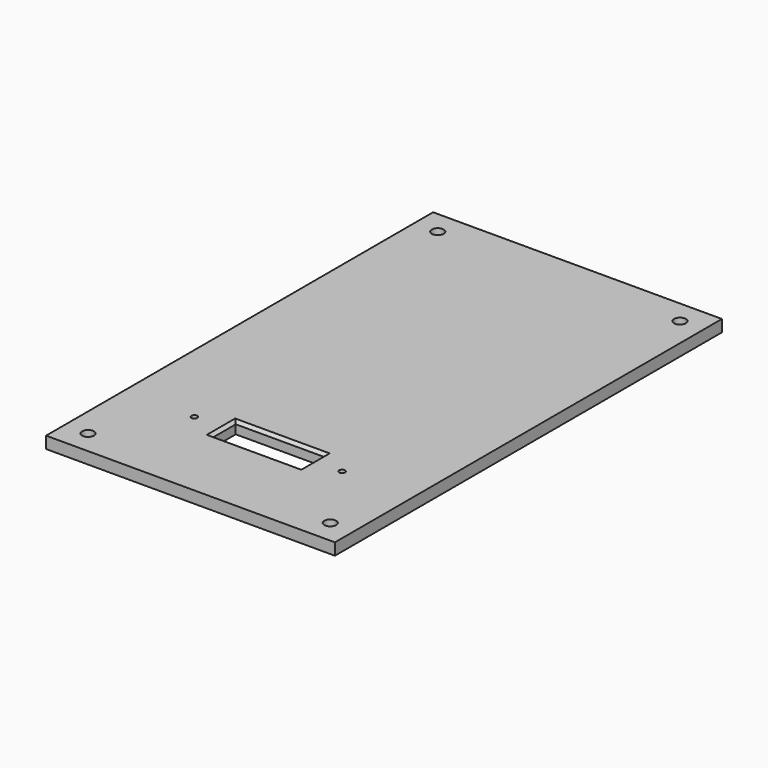
from build123d import *

# Parameters (mm, degrees)
F0_W     = 48.9
F0_H     = 81.9
F0_W_2   = 15
F0_H_2   = 5
F1_DEPTH = 2
F2_D     = 2
F2_DEPTH = 15
F2_TIP   = 0.600860619
F3_D     = 1
F3_DEPTH = 15
F3_TIP   = 0.3004303095
F4_SIZE  = 0.5


with BuildPart() as f1:
    # F0 (on Top) → F1 (new body)
    with BuildSketch(Plane.XY):
        Rectangle(F0_W, F0_H)
        with Locations((0, -24.5)):
            Rectangle(F0_W_2, F0_H_2, mode=Mode.SUBTRACT)
    extrude(amount=F1_DEPTH)

    # F2
    with Locations(Plane(origin=(0, 0, 0), x_dir=(1, 0, 0), z_dir=(0, 0, -1))):
        with Locations((-20.5, -37), (20.5, -37), (-20.5, 37), (20.5, 37)):
            Hole(F2_D / 2, depth=F2_DEPTH)
            with Locations((0, 0, -(F2_DEPTH + F2_TIP / 2))):  # 118° drill point
                Cone(0, F2_D / 2, F2_TIP, mode=Mode.SUBTRACT)

    # F3
    with Locations(Plane(origin=(0, 0, 0), x_dir=(1, 0, 0), z_dir=(0, 0, -1))):
        with Locations((-12.5, 24.5), (12.5, 24.5)):
            Hole(F3_D / 2, depth=F3_DEPTH)
            with Locations((0, 0, -(F3_DEPTH + F3_TIP / 2))):  # 118° drill point
                Cone(0, F3_D / 2, F3_TIP, mode=Mode.SUBTRACT)

    # F4
    f4_edges = [f1.edges().sort_by_distance(p)[0] for p in [
        (0, -22, 2),
        (-7.5, -24.5, 2),
        (0, -27, 2),
        (7.5, -24.5, 2),
    ]]
    chamfer(f4_edges, length=F4_SIZE)


solid = f1.part
